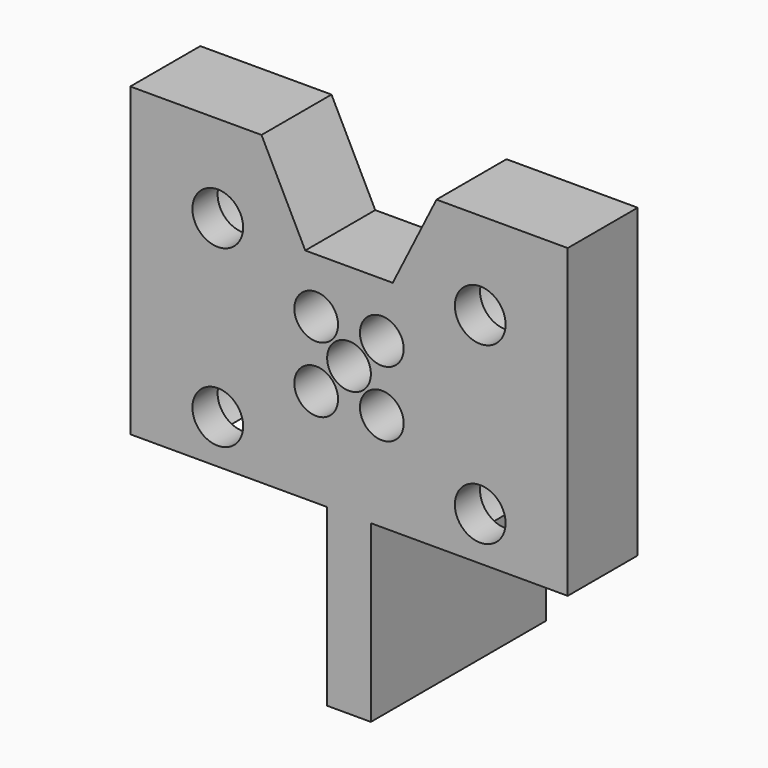
from build123d import *

# Parameters (mm, degrees)
PAD023_DEPTH        = 10
SKETCH037_R         = 2.5
POCKET009_DEPTH     = 5
HOLE004_D           = 5.8
HOLE004_DEPTH       = 25
HOLE004_CBORE_D     = 13
HOLE004_CBORE_DEPTH = 6.4
SKETCH039_W         = 5
SKETCH039_H         = 22.5
PAD024_DEPTH        = 25


with BuildPart() as part:
    # Sketch036 → Pad023 (new body)
    with BuildSketch(Plane.XZ.offset(-50)):
        Polygon((-25, -40), (-10, -40), (-5, -50), (5, -50), (10, -40), (25, -40), (25, -75), (-25, -75), align=None)
    extrude(amount=-PAD023_DEPTH)

    # Sketch037 → Pocket009 (cut)
    with BuildSketch(Plane.XZ.offset(-50)):
        with Locations((-3.75, -56.25)):
            Circle(SKETCH037_R)
        with Locations((3.75, -56.25)):
            Circle(SKETCH037_R)
        with Locations((0, -60)):
            Circle(SKETCH037_R)
        with Locations((3.75, -63.75)):
            Circle(SKETCH037_R)
        with Locations((-3.75, -63.75)):
            Circle(SKETCH037_R)
    extrude(amount=-POCKET009_DEPTH, mode=Mode.SUBTRACT)

    # Hole004
    with Locations(Plane(origin=(0, 60, 0), x_dir=(1, 0, 0), z_dir=(0, 1, 0))):
        with Locations((-15, 50), (-15, 70), (15, 70), (15, 50)):
            CounterBoreHole(HOLE004_D / 2, HOLE004_CBORE_D / 2, HOLE004_CBORE_DEPTH, depth=HOLE004_DEPTH)

    # Sketch039 → Pad024 (join)
    with BuildSketch(Plane.XZ.offset(-50)):
        with Locations((0, -83.75)):
            Rectangle(SKETCH039_W, SKETCH039_H)
    extrude(amount=-PAD024_DEPTH)


solid = part.part
